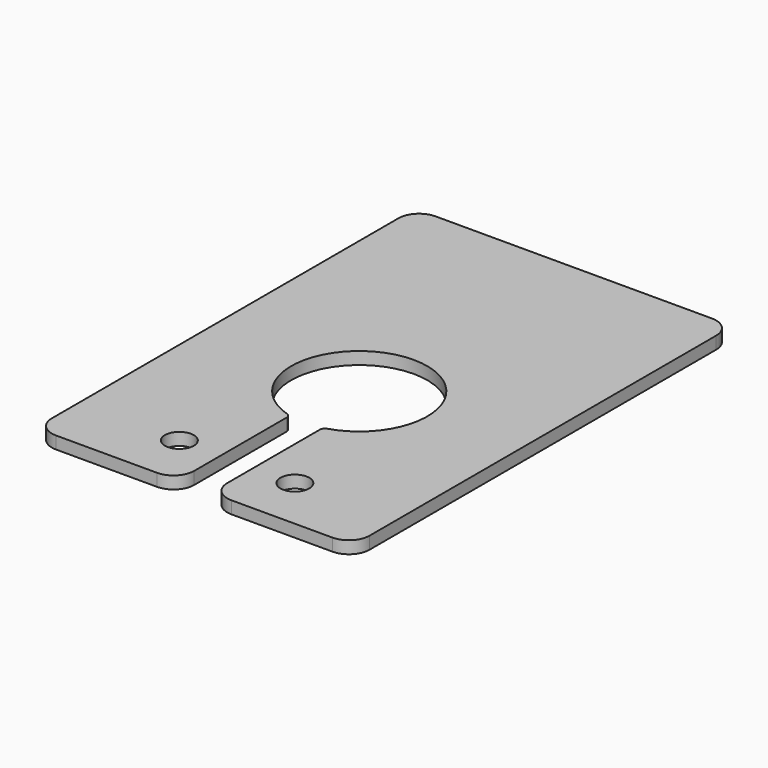
from build123d import *

# Parameters (mm, degrees)
F0_R     = 3.5
F1_DEPTH = 3
F2_R     = 5
F3_R     = 1.27


with BuildPart() as f1:
    # F0 (on Top) → F1 (new body)
    with BuildSketch(Plane.XY):
        with BuildLine():
            Line((38.5, -57.5), (38.5, 57.5))
            Line((38.5, 57.5), (-38.5, 57.5))
            Line((-38.5, 57.5), (-38.5, -57.5))
            Line((-38.5, -57.5), (-4, -57.5))
            Line((-4, -57.5), (-4, -23.507811))
            ThreePointArc((-4, -23.507811), (0, 9), (4, -23.507811))
            Line((4, -23.507811), (4, -57.5))
            Line((4, -57.5), (38.5, -57.5))
        make_face()
        with Locations((-14, -44.5)):
            Circle(F0_R, mode=Mode.SUBTRACT)
        with Locations((14, -44.5)):
            Circle(F0_R, mode=Mode.SUBTRACT)
    extrude(amount=F1_DEPTH)

    # F2
    f2_edges = [f1.edges().sort_by_distance(p)[0] for p in [
        (-38.5, 57.5, 1.5),
        (38.5, 57.5, 1.5),
        (-38.5, -57.5, 1.5),
        (38.5, -57.5, 1.5),
        (4, -57.5, 1.5),
        (-4, -57.5, 1.5),
    ]]
    fillet(f2_edges, radius=F2_R)

    # F3
    f3_edges = [f1.edges().sort_by_distance(p)[0] for p in [
        (4, -23.507811, 1.5),
        (-4, -23.507811, 1.5),
    ]]
    fillet(f3_edges, radius=F3_R)


solid = f1.part
